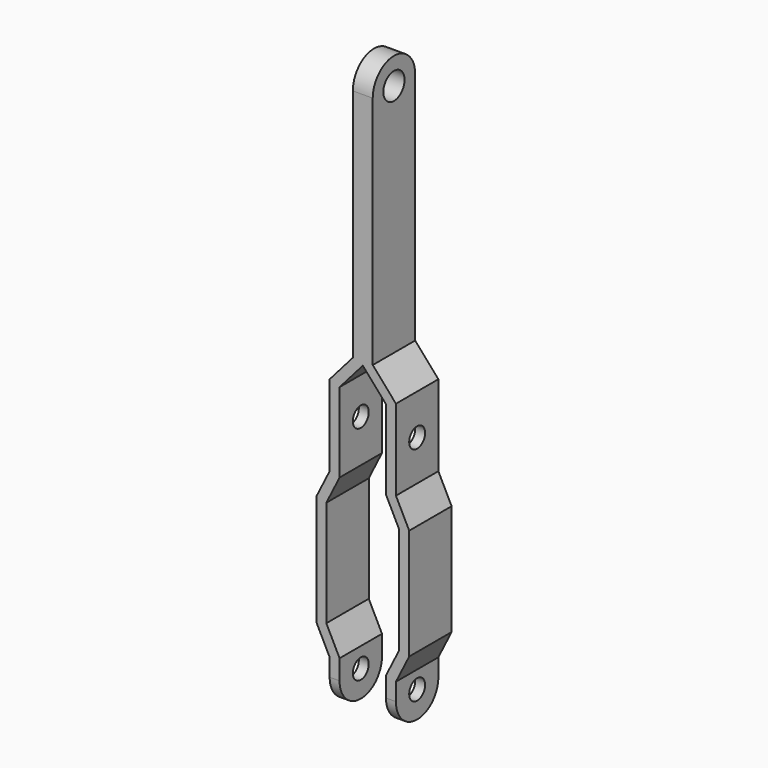
from build123d import *

# Parameters (mm, degrees)
F1_DEPTH  = 16
F6_DEPTH  = 6
F7_DEPTH  = 3
F8_DEPTH  = 3
F9_R      = 4
F12_DEPTH = 25
F11_R     = 3
F13_DEPTH = 50
F10_R     = 3
F14_DEPTH = 50


with BuildPart() as f1:
    # F0 (on Front) → F1 (new body)
    with BuildSketch(Plane.XZ):
        Polygon((0, 0), (0, 72), (-3, 72), (-3, 1.127205), (-10, -6.872795), (-10, -31.291796), (-14, -39.291796), (-14, -72.708204), (-10, -80.708204), (-10, -86), (-7, -86), (-7, -80), (-11, -72), (-11, -40), (-7, -32), (-7, -8), align=None)
    extrude(amount=F1_DEPTH)

    # F2: F1 across plane


with BuildPart() as f1_1:
    add(f1.part)
    add(f1.part.mirror(Plane.YZ))

    # F3 (on face) → F6 (join)
    with BuildSketch(Plane.YZ.offset(3)):
        with BuildLine():
            Line((-16, 72), (0, 72))
            ThreePointArc((0, 72), (-8, 80), (-16, 72))
        make_face()
    extrude(amount=-F6_DEPTH)

    # F5 (on face) → F7 (join)
    with BuildSketch(Plane(origin=(-10, 0, 0), x_dir=(0, -1, 0), z_dir=(-1, 0, 0))):
        with BuildLine():
            Line((16, -86), (0, -86))
            ThreePointArc((0, -86), (8, -94), (16, -86))
        make_face()
    extrude(amount=-F7_DEPTH)

    # F4 (on face) → F8 (join)
    with BuildSketch(Plane.YZ.offset(10)):
        with BuildLine():
            Line((0, -86), (-16, -86))
            ThreePointArc((-16, -86), (-8, -94), (0, -86))
        make_face()
    extrude(amount=-F8_DEPTH)

    # F9 (on face) → F12 (cut)
    with BuildSketch(Plane.YZ.offset(3)):
        with Locations((-8, 72)):
            Circle(F9_R)
    extrude(amount=-F12_DEPTH, mode=Mode.SUBTRACT)

    # F11 (on face) → F13 (cut)
    with BuildSketch(Plane.YZ.offset(10)):
        with Locations((-8, -19.082295)):
            Circle(F11_R)
    extrude(amount=-F13_DEPTH, mode=Mode.SUBTRACT)

    # F10 (on face) → F14 (cut)
    with BuildSketch(Plane.YZ.offset(10)):
        with Locations((-8, -86)):
            Circle(F10_R)
    extrude(amount=-F14_DEPTH, mode=Mode.SUBTRACT)


solid = f1_1.part
